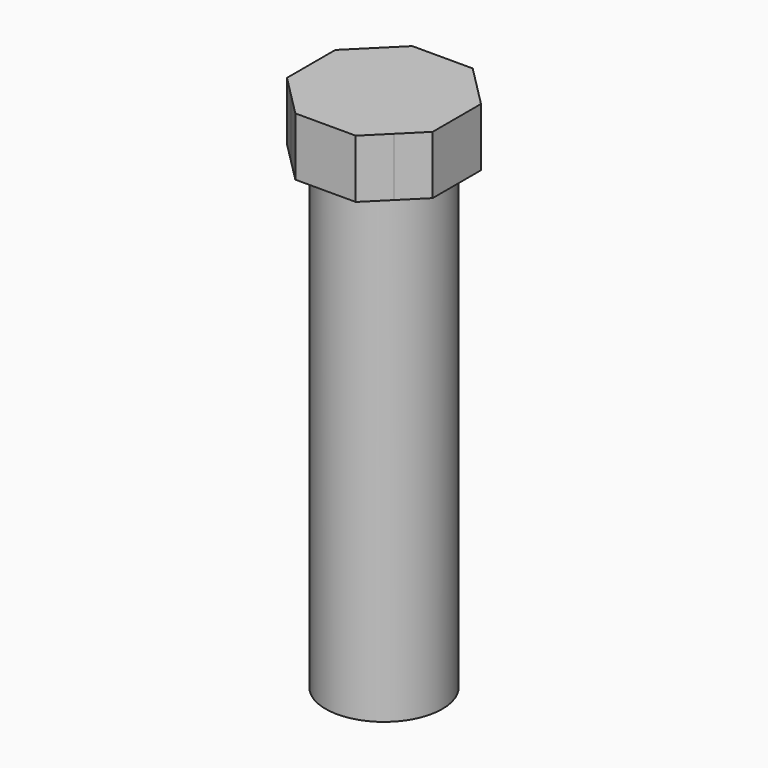
from build123d import *

# Parameters (mm, degrees)
F1_DEPTH = 1
F2_R     = 1
F3_DEPTH = 9


with BuildPart() as f1:
    # F0 (on Top) → F1 (new body)
    with BuildSketch(Plane.XY):
        Polygon((-0.881542, 0.886219), (0, 0), (0, 1.25), (-0.515831, 1.25), align=None)
        Polygon((0.881542, -0.886219), (0, 0), (0, -1.25), (0.515831, -1.25), align=None)
        Polygon((0.886219, 0.881542), (0, 0), (1.25, 0), (1.25, 0.515831), align=None)
        Polygon((-0.886219, -0.881542), (0, 0), (-1.25, 0), (-1.25, -0.515831), align=None)
        Polygon((0, 1.25), (0, 0), (0.886219, 0.881542), (0.519705, 1.25), align=None)
        Polygon((0, -1.25), (0, 0), (-0.886219, -0.881542), (-0.519705, -1.25), align=None)
        Polygon((1.25, 0), (0, 0), (0.881542, -0.886219), (1.25, -0.519705), align=None)
        Polygon((-1.25, 0), (0, 0), (-0.881542, 0.886219), (-1.25, 0.519705), align=None)
    extrude(amount=F1_DEPTH)

    # F2 (on face) → F3 (join)
    with BuildSketch(Plane.XY.offset(1)):
        Circle(F2_R)
    extrude(amount=-F3_DEPTH)


solid = f1.part
